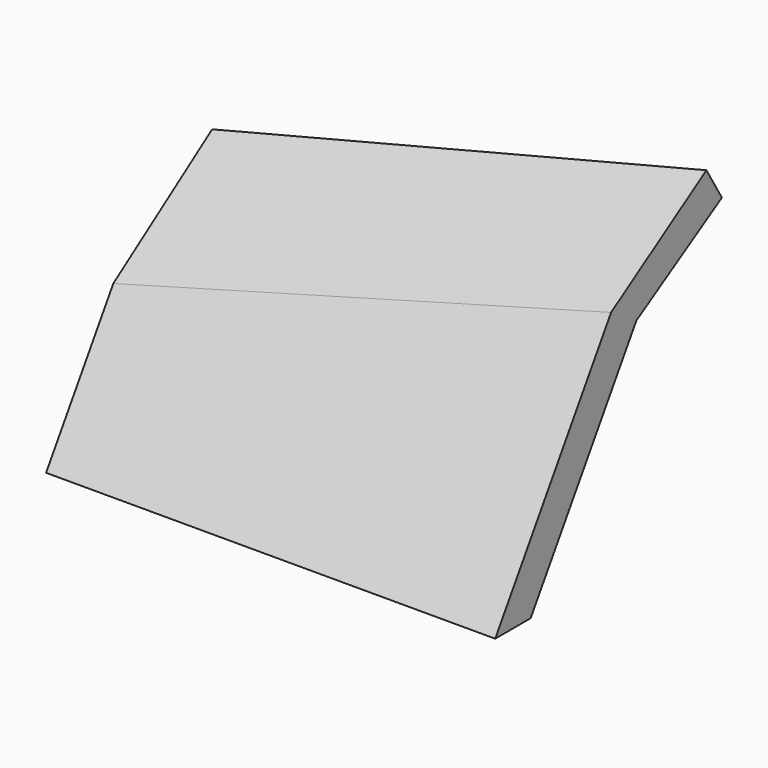
from build123d import *

# Parameters (mm, degrees)
F1_DEPTH = 65.532
F3_DEPTH = 25.4


with BuildPart() as f1:
    # F0 (on Right) → F1 (new body)
    with BuildSketch(Plane.YZ):
        Polygon((9.926255, 54.951947), (-24.934381, 0), (-18.468346, 0), (14.536806, 52.027088), align=None)
    extrude(amount=F1_DEPTH)

    # F2 (on face) → F3 (cut)
    with BuildSketch(Plane(origin=(0, -17.779247, 11.27887), x_dir=(1, 0, 0), z_dir=(0, -0.844418, 0.535685))):
        Polygon((-17.95695, 38.16301), (0, 9.537645), (65.532, 26.100498), (82.354724, 60.764659), (0, 74.19014), align=None)
    extrude(amount=-F3_DEPTH, mode=Mode.SUBTRACT)

    # F5 (on face) → F6 section 0
    with BuildSketch(Plane(origin=(0, 0, 0), x_dir=(0, -1, 0), z_dir=(-1, 0, 0))):
        Polygon((-8.362336, 27.253337), (8.059522, 16.407767), (12.670072, 19.332627), (-5.352806, 31.810228), align=None)
    # F4 (on face) → F6 section 1
    with BuildSketch(Plane.YZ.offset(65.532)):
        Polygon((-3.797598, 33.318595), (0.812953, 30.393735), (16.414955, 39.848458), (13.584736, 44.518831), align=None)
    loft()


solid = f1.part
